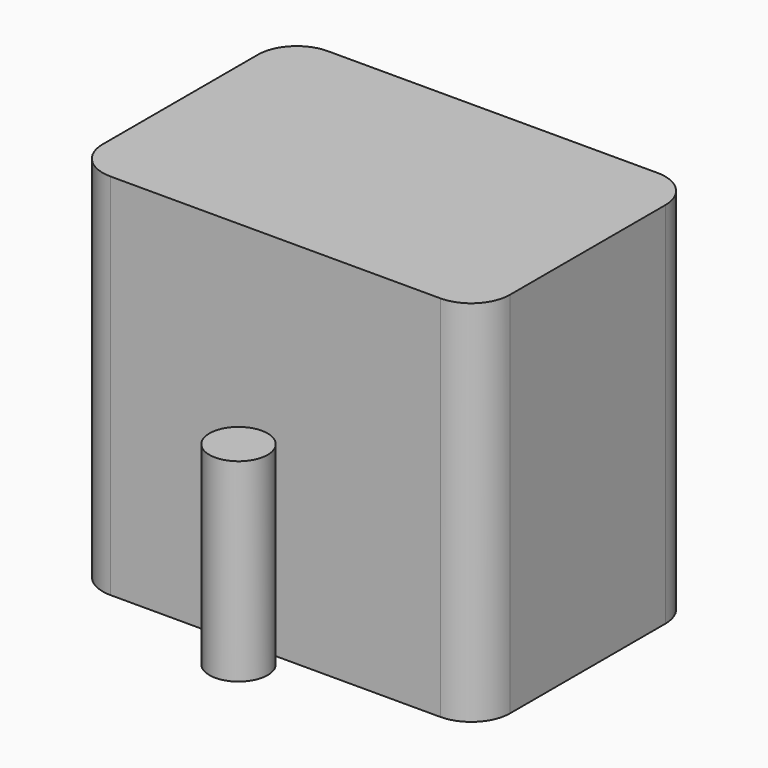
from build123d import *

# Parameters (mm, degrees)
CYLINDER040_R     = 1.5
CYLINDER040_DEPTH = 10
CYLINDER039_R     = 1.5
CYLINDER039_DEPTH = 10
BOX043_W          = 21
BOX043_H          = 14
BOX043_DEPTH      = 19
FILLET001_R       = 2


with BuildPart() as cilindro003:
    # Cylinder040 → Cylinder040 (new body)
    with BuildSketch(Plane(origin=(84, -18, -4), x_dir=(1, 0, 0), z_dir=(0, 0, 1))):
        Circle(CYLINDER040_R)
    extrude(amount=CYLINDER040_DEPTH)


with BuildPart() as cilindro002:
    # Cylinder039 → Cylinder039 (new body)
    with BuildSketch(Plane(origin=(84, -38, -4), x_dir=(1, 0, 0), z_dir=(0, 0, 1))):
        Circle(CYLINDER039_R)
    extrude(amount=CYLINDER039_DEPTH)


with BuildPart() as obj1:
    # Box043 → Box043 (new body)
    with BuildSketch(Plane(origin=(73, -35, -5), x_dir=(1, 0, 0), z_dir=(0, 0, 1))):
        with Locations((10.5, 7)):
            Rectangle(BOX043_W, BOX043_H)
    extrude(amount=BOX043_DEPTH)

    # Fusion039: union Cilindro003, Cilindro002
    add(cilindro003.part)
    add(cilindro002.part)

    # Fillet001
    fillet001_edges = [obj1.edges().sort_by_distance(p)[0] for p in [
        (73, -35, 4.5),
        (73, -21, 4.5),
        (94, -35, 4.5),
        (94, -21, 4.5),
    ]]
    fillet(fillet001_edges, radius=FILLET001_R)


solid = obj1.part
